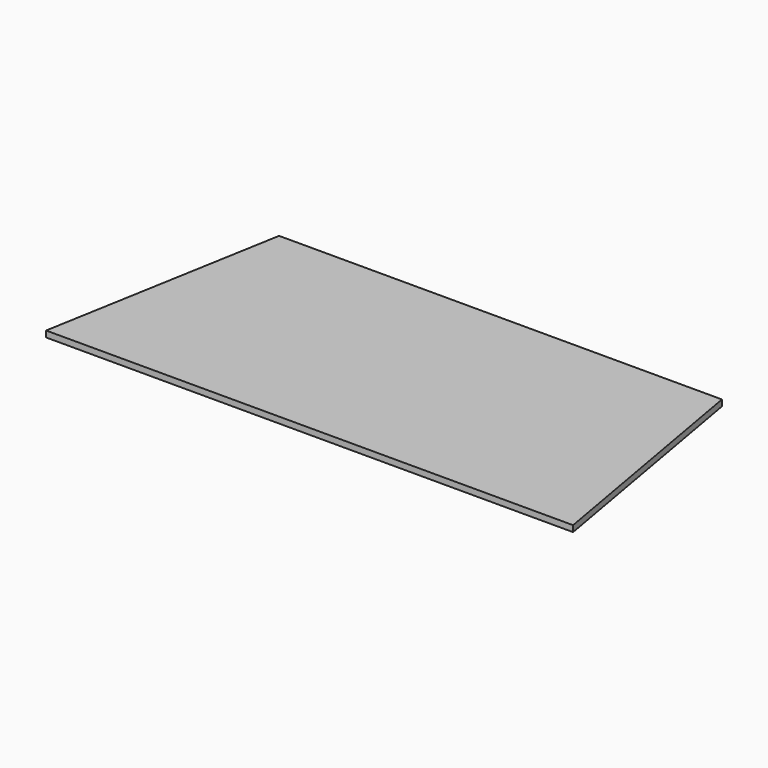
from build123d import *

# Parameters (mm, degrees)
F1_DEPTH = 12.7
F2_DEPTH = 6.35
F3_DEPTH = 6.35
F4_DEPTH = 6.35


with BuildPart() as f1:
    # F0 (on Top) → F1 (new body)
    with BuildSketch(Plane.XY):
        Polygon((201.0800465941, 169.5929964036), (-256.1199534059, 169.5929964036), (-299.5649909763, -76.7960553225), (244.5250841646, -76.7960553225), align=None)
    extrude(amount=F1_DEPTH)

    # F2 (add): a face of the model
    f2_faces = [f1.faces().sort_by_distance(p)[0] for p in [
        (-27.5199534059, 42.8349405589, 12.7),
    ]]
    extrude(f2_faces, amount=-F2_DEPTH)

    # F3 (add): a face of the model
    f3_faces = [f1.faces().sort_by_distance(p)[0] for p in [
        (-27.5199534059, 42.8349405589, 12.7),
    ]]
    extrude(f3_faces, amount=-F3_DEPTH)

    # F4 (cut): a face of the model
    f4_faces = [f1.faces().sort_by_distance(p)[0] for p in [
        (-27.5199534059, 42.8349405589, 12.7),
    ]]
    extrude(f4_faces, amount=-F4_DEPTH, mode=Mode.SUBTRACT)


solid = f1.part
